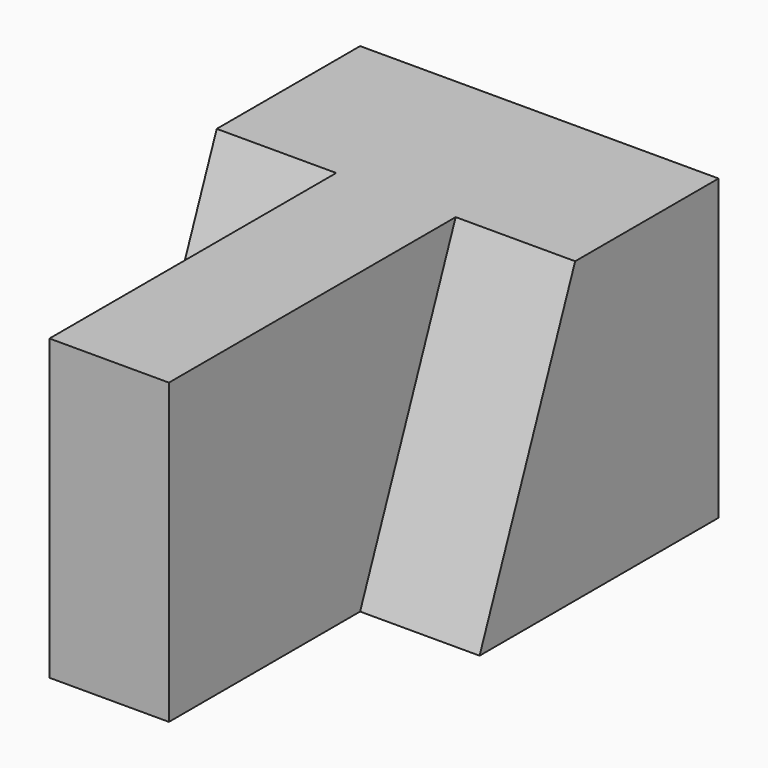
from build123d import *

# Parameters (mm, degrees)
F1_DEPTH = 31.75
F3_DEPTH = 12.7
F5_DEPTH = 12.7


with BuildPart() as f1:
    # F0 (on Top) → F1 (new body)
    with BuildSketch(Plane.XY):
        Polygon((0, 25.4), (0, 0), (12.7, 0), (12.7, 25.4), (25.4, 25.4), (25.4, 57.15), (-12.7, 57.15), (-12.7, 25.4), align=None)
    extrude(amount=F1_DEPTH)

    # F2 (on face) → F3 (cut)
    with BuildSketch(Plane(origin=(-12.7, 0, 0), x_dir=(0, -1, 0), z_dir=(-1, 0, 0))):
        Polygon((-38.1, 31.75), (-25.4, 0), (-25.4, 31.75), align=None)
    extrude(amount=-F3_DEPTH, mode=Mode.SUBTRACT)

    # F4 (on face) → F5 (cut)
    with BuildSketch(Plane.YZ.offset(25.4)):
        Polygon((25.4, 0), (38.1, 31.75), (25.4, 31.75), align=None)
    extrude(amount=-F5_DEPTH, mode=Mode.SUBTRACT)


solid = f1.part
